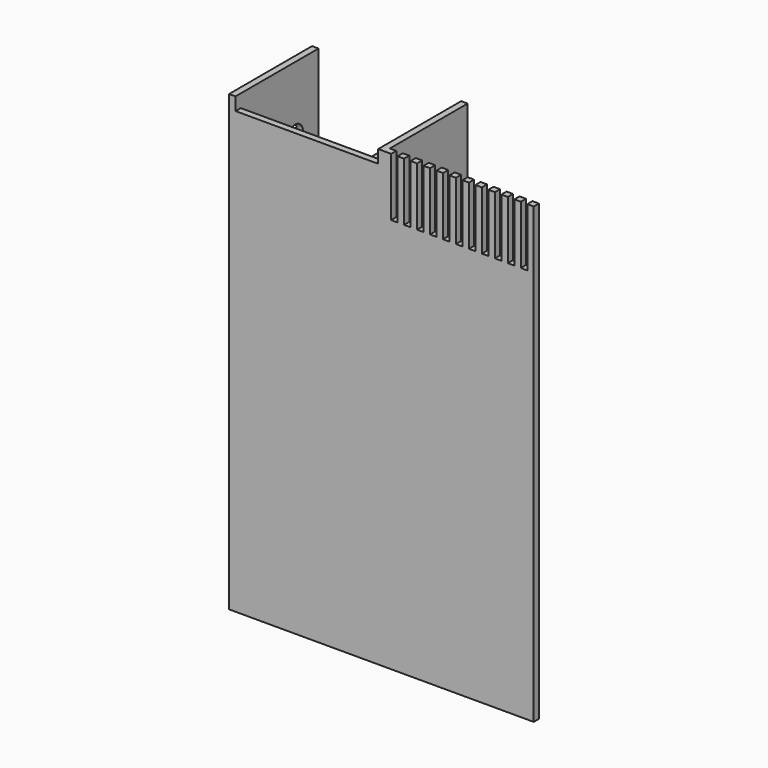
from build123d import *

# Parameters (mm, degrees)
F0_W      = 298.45
F0_H      = 444.5
F1_DEPTH  = 6.35
F2_W      = 6.35
F2_H      = 444.5
F3_DEPTH  = 95.25
F4_W      = 6.35
F4_H      = 57.15
F5_DEPTH  = 6.351
F6_W      = 6.35
F6_H      = 444.5
F7_DEPTH  = 95.25
F8_W      = 19.05
F8_H      = 50.8
F9_W      = 95.25
F9_H      = 50.8
F10_DEPTH = 25.4
F11_W     = 139.7
F11_H     = 12.7
F12_DEPTH = 25.4
F13_R     = 9.525
F14_DEPTH = 25.4


with BuildPart() as f1:
    # F0 (on Front) → F1 (new body)
    with BuildSketch(Plane.XZ):
        with Locations((-657.405383, 222.25)):
            Rectangle(F0_W, F0_H)
    extrude(amount=F1_DEPTH)

    # F2 (on face) → F3 (join)
    with BuildSketch(Plane(origin=(0, 0, 0), x_dir=(-1, 0, 0), z_dir=(0, 1, 0))):
        with Locations((803.455383, 222.25)):
            Rectangle(F2_W, F2_H)
    extrude(amount=F3_DEPTH)

    # F4 (on face) → F5 (cut, through all)
    with BuildSketch(Plane(origin=(0, 0, 0), x_dir=(-1, 0, 0), z_dir=(0, 1, 0))):
        with Locations((517.705383, 415.925)):
            Rectangle(F4_W, F4_H)
        with Locations((530.405383, 415.925)):
            Rectangle(F4_W, F4_H)
        with Locations((543.105383, 415.925)):
            Rectangle(F4_W, F4_H)
        with Locations((555.805383, 415.925)):
            Rectangle(F4_W, F4_H)
        with Locations((568.505383, 415.925)):
            Rectangle(F4_W, F4_H)
        with Locations((581.205383, 415.925)):
            Rectangle(F4_W, F4_H)
        with Locations((593.905383, 415.925)):
            Rectangle(F4_W, F4_H)
        with Locations((606.605383, 415.925)):
            Rectangle(F4_W, F4_H)
        with Locations((619.305383, 415.925)):
            Rectangle(F4_W, F4_H)
        with Locations((632.005383, 415.925)):
            Rectangle(F4_W, F4_H)
        with Locations((644.705383, 415.925)):
            Rectangle(F4_W, F4_H)
    extrude(amount=-F5_DEPTH, mode=Mode.SUBTRACT)

    # F6 (on face) → F7 (join)
    with BuildSketch(Plane(origin=(0, 0, 0), x_dir=(-1, 0, 0), z_dir=(0, 1, 0))):
        with Locations((657.405383, 222.25)):
            Rectangle(F6_W, F6_H)
        with Locations((714.555383, 222.25)):
            Rectangle(F6_W, F6_H)
    extrude(amount=F7_DEPTH)

    # F8 (on face) + F9 (on face) → F10 (cut)
    with BuildSketch(Plane.YZ.offset(-654.230383)):
        with Locations((28.575, 25.4)):
            Rectangle(F8_W, F8_H)
        with Locations((66.675, 25.4)):
            Rectangle(F8_W, F8_H)
    with BuildSketch(Plane.YZ.offset(-711.380383)):
        with Locations((47.625, 419.1)):
            Rectangle(F9_W, F9_H)
    extrude(amount=-F10_DEPTH, mode=Mode.SUBTRACT)

    # F11 (on face) → F12 (cut)
    with BuildSketch(Plane(origin=(0, 0, 0), x_dir=(-1, 0, 0), z_dir=(0, 1, 0))):
        with Locations((730.430383, 438.15)):
            Rectangle(F11_W, F11_H)
    extrude(amount=-F12_DEPTH, mode=Mode.SUBTRACT)

    # F13 (on face) → F14 (cut)
    with BuildSketch(Plane.YZ.offset(-800.280383)):
        with Locations((66.675, 381)):
            Circle(F13_R)
    extrude(amount=-F14_DEPTH, mode=Mode.SUBTRACT)


solid = f1.part
